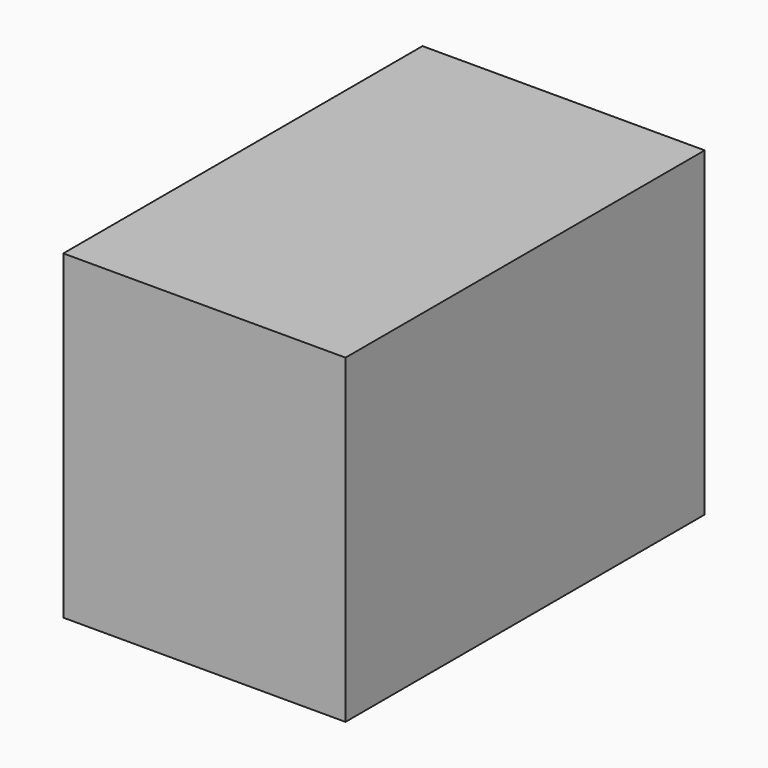
from build123d import *

# Parameters (mm, degrees)
F0_W     = 88.9
F0_H     = 63.5
F1_DEPTH = 55.88
F2_W     = 83.951384
F2_H     = 57.938274
F3_DEPTH = 54.102


with BuildPart() as f1:
    # F0 (on Right) → F1 (new body)
    with BuildSketch(Plane.YZ):
        Rectangle(F0_W, F0_H)
    extrude(amount=F1_DEPTH)

    # F2 (on face) → F3 (cut)
    with BuildSketch(Plane(origin=(0, 0, 0), x_dir=(0, -1, 0), z_dir=(-1, 0, 0))):
        Rectangle(F2_W, F2_H)
    extrude(amount=-F3_DEPTH, mode=Mode.SUBTRACT)


solid = f1.part
